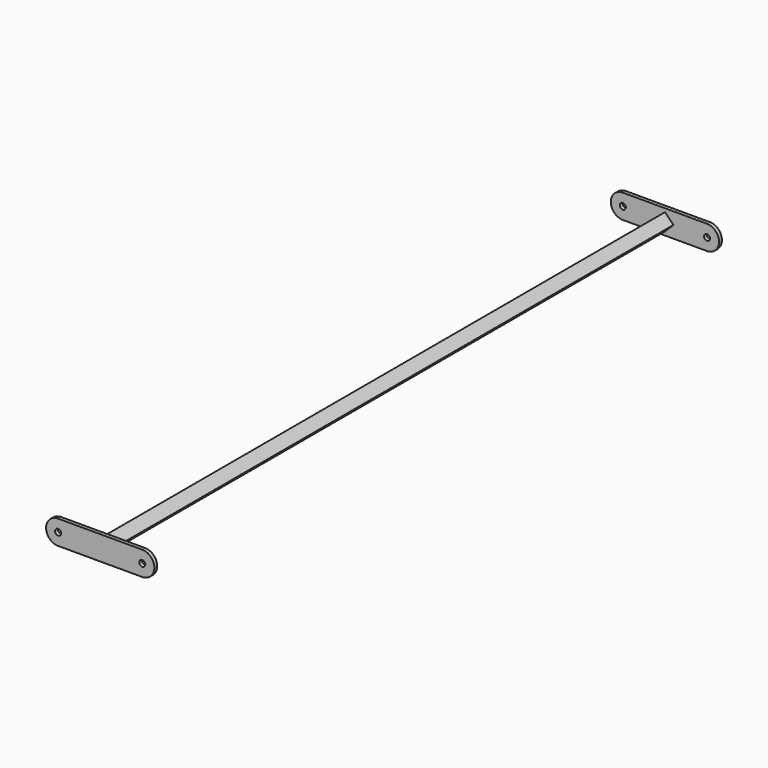
from build123d import *

# Parameters (mm, degrees)
F1_R     = 2.5
F2_DEPTH = 3
F4_DEPTH = 292


with BuildPart() as f2:
    # F1 (on Front) → F2 (new body)
    with BuildSketch(Plane.XZ):
        with BuildLine():
            ThreePointArc((35, -10), (45, 0), (35, 10))
            Line((35, 10), (0, 10))
            Line((0, 10), (-35, 10))
            ThreePointArc((-35, 10), (-45, 0), (-35, -10))
            Line((-35, -10), (0, -10))
            Line((0, -10), (35, -10))
        make_face()
        with Locations((-35, 0)):
            Circle(F1_R, mode=Mode.SUBTRACT)
        with Locations((35, 0)):
            Circle(F1_R, mode=Mode.SUBTRACT)
    extrude(amount=F2_DEPTH)

    # F3 (on face) → F4 (join, through all)
    with BuildSketch(Plane(origin=(0, 0, 0), x_dir=(-1, 0, 0), z_dir=(0, 1, 0))):
        Polygon((7.071068, 0), (0, 7.071068), (-7.071068, 0), (0, -7.071068), align=None)
    extrude(amount=F4_DEPTH)

    # F5: F2 across plane


with BuildPart() as f2_1:
    add(f2.part)
    add(f2.part.mirror(Plane.XZ.offset(-292)))


solid = f2_1.part
